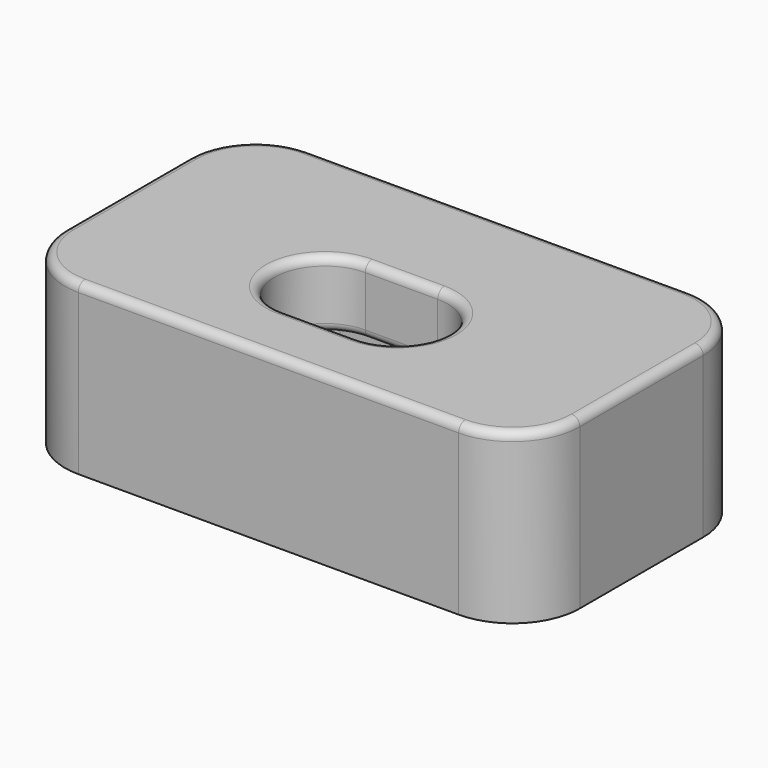
from build123d import *

# Parameters (mm, degrees)
SKETCH041_W     = 30.588764
SKETCH041_H     = 17.153068
PAD012_DEPTH    = 10
SKETCH042_W     = 18
SKETCH042_H     = 14
POCKET033_DEPTH = 6
POCKET034_DEPTH = 5
POCKET035_DEPTH = 10.001
SKETCH045_R     = 1.272634
PAD013_DEPTH    = 3
CHAMFER011_SIZE = 1
FILLET033_R     = 0.8
FILLET034_R     = 4
FILLET035_R     = 0.5


with BuildPart() as part:
    # Sketch041 → Pad012 (new body)
    with BuildSketch(Plane.XY):
        Rectangle(SKETCH041_W, SKETCH041_H)
    extrude(amount=PAD012_DEPTH)

    # Sketch042 → Pocket033 (cut)
    with BuildSketch(Plane.XY):
        Rectangle(SKETCH042_W, SKETCH042_H)
    extrude(amount=POCKET033_DEPTH, mode=Mode.SUBTRACT)

    # Sketch043 → Pocket034 (cut)
    with BuildSketch(Plane.XY):
        with BuildLine():
            ThreePointArc((-9.861316, 2.945018), (-12.806334, 0), (-9.861316, -2.945018))
            Line((-9.861316, -2.945018), (9.861316, -2.945018))
            ThreePointArc((9.861316, -2.945018), (12.806334, 0), (9.861316, 2.945018))
            Line((9.861316, 2.945018), (-9.861316, 2.945018))
        make_face()
    extrude(amount=POCKET034_DEPTH, mode=Mode.SUBTRACT)

    # Sketch044 → Pocket035 (cut, through all)
    with BuildSketch(Plane.XY):
        with BuildLine():
            ThreePointArc((-2.15, 1.3), (-5.15, -1.7), (-2.15, -4.7))
            Line((-2.15, -4.7), (2.15, -4.7))
            ThreePointArc((2.15, -4.7), (5.15, -1.7), (2.15, 1.3))
            Line((2.15, 1.3), (-2.15, 1.3))
        make_face()
    extrude(amount=POCKET035_DEPTH, mode=Mode.SUBTRACT)

    # Sketch045 (on Face21 of Pocket035) → Pad013 (join)
    with BuildSketch(Plane(origin=(0, 0, 6), x_dir=(1, 0, 0), z_dir=(0, 0, -1))):
        with Locations((-9.839489, 0)):
            Circle(SKETCH045_R)
        with Locations((9.839489, 0)):
            Circle(SKETCH045_R)
    extrude(amount=PAD013_DEPTH)

    # Chamfer011
    chamfer011_edges = [part.edges().sort_by_distance(p)[0] for p in [
        (8.566855, 0, 3),
        (-11.112123, 0, 3),
    ]]
    chamfer(chamfer011_edges, length=CHAMFER011_SIZE)

    # Fillet033
    fillet033_edges = [part.edges().sort_by_distance(p)[0] for p in [
        (9, 2.945018, 2.5),
        (9, -2.945018, 2.5),
        (9, 7, 3),
        (-9, 2.945018, 2.5),
        (-9, -2.945018, 2.5),
        (-9, -7, 3),
        (9, -7, 3),
        (-9, 7, 3),
    ]]
    fillet(fillet033_edges, radius=FILLET033_R)

    # Fillet034
    fillet034_edges = [part.edges().sort_by_distance(p)[0] for p in [
        (-15.294382, -8.576534, 5),
        (-15.294382, 8.576534, 5),
        (15.294382, 8.576534, 5),
        (15.294382, -8.576534, 5),
    ]]
    fillet(fillet034_edges, radius=FILLET034_R)

    # Fillet035
    fillet035_edges = [part.edges().sort_by_distance(p)[0] for p in [
        (0, 8.576534, 10),
        (-14.12281, 7.404962, 10),
        (14.12281, 7.404962, 10),
        (-15.294382, 0, 10),
        (15.294382, 0, 10),
        (-14.12281, -7.404962, 10),
        (14.12281, -7.404962, 10),
        (0, -8.576534, 10),
        (0, -4.7, 10),
        (5.15, -1.7, 10),
        (0, 1.3, 10),
        (-5.15, -1.7, 10),
        (-5.15, -1.7, 6),
    ]]
    fillet(fillet035_edges, radius=FILLET035_R)


solid = part.part
